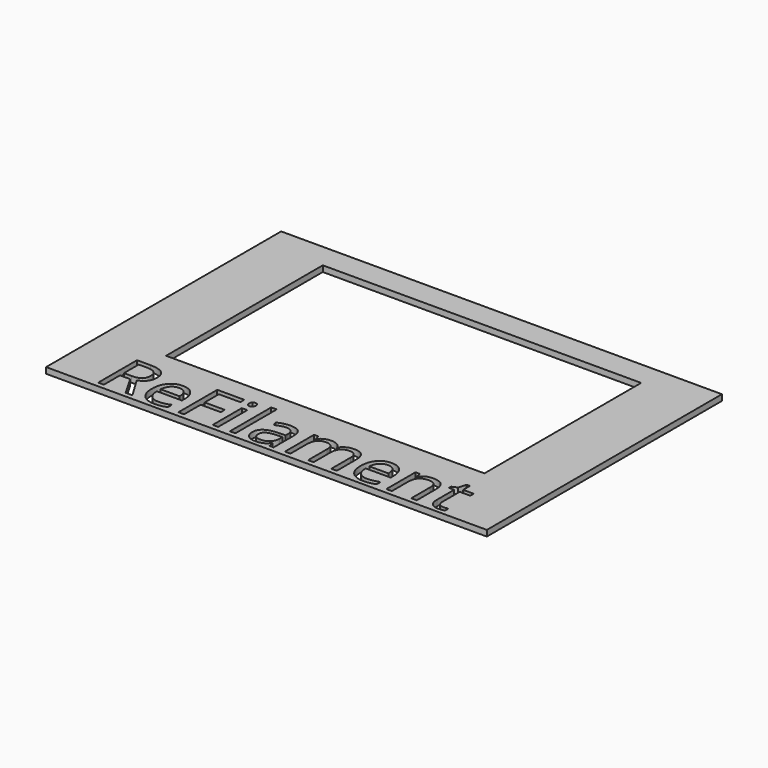
from build123d import *

# Parameters (mm, degrees)
F1_DEPTH = 3.0734
F0_W     = 228.6
F0_H     = 152.4
F0_W_2   = 2.8608072917
F0_H_2   = 18.8791232639
F0_H_3   = 26.8055989583
F0_W_3   = 165.1
F0_H_4   = 101.6


with BuildPart() as f1:
    # F0 (on Top) → F1 (new body)
    with BuildSketch(Plane.XY):
        with BuildLine():
            Line((-86.3781901042, -51.0436371528), (-86.3781901042, -60.6733680556))
            Line((-86.3781901042, -60.6733680556), (-82.3598307292, -60.6733680556))
            add(Edge.make_bspline(
                [(-82.3598307292, -60.6733680556), (-79.2620008681, -60.6733680556), (-77.8150607639, -59.4414019097)],
                knots=[0, 0, 0, 1, 1, 1], degree=2))
            add(Edge.make_bspline(
                [(-77.8150607639, -59.4414019097), (-76.3681206597, -58.2094357639), (-76.3681206597, -55.7455034722)],
                knots=[0, 0, 0, 1, 1, 1], degree=2))
            add(Edge.make_bspline(
                [(-76.3681206597, -55.7455034722), (-76.3681206597, -53.2484982639), (-77.8398654514, -52.1460677083)],
                knots=[0, 0, 0, 1, 1, 1], degree=2))
            add(Edge.make_bspline(
                [(-77.8398654514, -52.1460677083), (-79.3116102431, -51.0436371528), (-82.5692925347, -51.0436371528)],
                knots=[0, 0, 0, 1, 1, 1], degree=2))
            Line((-82.5692925347, -51.0436371528), (-86.3781901042, -51.0436371528))
        make_face()
    extrude(amount=F1_DEPTH)


with BuildPart() as f1b:
    # F0 (on Top) → F1, piece 2 (new body)
    with BuildSketch(Plane.XY):
        with BuildLine():
            add(Edge.make_bspline(
                [(-57.2822916667, -58.2700694444), (-58.4866970486, -56.8313975694), (-60.7301432292, -56.8313975694)],
                knots=[0, 0, 0, 1, 1, 1], degree=2))
            add(Edge.make_bspline(
                [(-60.7301432292, -56.8313975694), (-63.0011501736, -56.8313975694), (-64.3543836806, -58.3114105903)],
                knots=[0, 0, 0, 1, 1, 1], degree=2))
            add(Edge.make_bspline(
                [(-64.3543836806, -58.3114105903), (-65.7076171875, -59.7914236111), (-65.9501519097, -62.4096961806)],
                knots=[0, 0, 0, 1, 1, 1], degree=2))
            Line((-65.9501519097, -62.4096961806), (-56.0778862847, -62.4096961806))
            add(Edge.make_bspline(
                [(-56.0778862847, -62.4096961806), (-56.0778862847, -59.7087413194), (-57.2822916667, -58.2700694444)],
                knots=[0, 0, 0, 1, 1, 1], degree=2))
        make_face()
    extrude(amount=F1_DEPTH)


with BuildPart() as f1c:
    # F0 (on Top) → F1, piece 3 (new body)
    with BuildSketch(Plane.XY):
        with BuildLine():
            add(Edge.make_bspline(
                [(-9.5553168403, -70.8350217014), (-8.6182508681, -71.6425520833), (-6.9315321181, -71.6425520833)],
                knots=[0, 0, 0, 1, 1, 1], degree=2))
            add(Edge.make_bspline(
                [(-6.9315321181, -71.6425520833), (-4.2581380208, -71.6425520833), (-2.7340277778, -70.1790755208)],
                knots=[0, 0, 0, 1, 1, 1], degree=2))
            add(Edge.make_bspline(
                [(-2.7340277778, -70.1790755208), (-1.2099175347, -68.7155989583), (-1.2099175347, -66.0807899306)],
                knots=[0, 0, 0, 1, 1, 1], degree=2))
            Line((-1.2099175347, -66.0807899306), (-1.2099175347, -64.3775347222))
            Line((-1.2099175347, -64.3775347222), (-4.0707248264, -64.4932899306))
            add(Edge.make_bspline(
                [(-4.0707248264, -64.4932899306), (-7.4827473958, -64.6145572917), (-8.9875651042, -65.5543793403)],
                knots=[0, 0, 0, 1, 1, 1], degree=2))
            add(Edge.make_bspline(
                [(-8.9875651042, -65.5543793403), (-10.4923828125, -66.4942013889), (-10.4923828125, -68.4730642361)],
                knots=[0, 0, 0, 1, 1, 1], degree=2))
            add(Edge.make_bspline(
                [(-10.4923828125, -68.4730642361), (-10.4923828125, -70.0274913194), (-9.5553168403, -70.8350217014)],
                knots=[0, 0, 0, 1, 1, 1], degree=2))
        make_face()
    extrude(amount=F1_DEPTH)


with BuildPart() as f1d:
    # F0 (on Top) → F1, piece 4 (new body)
    with BuildSketch(Plane.XY):
        with BuildLine():
            add(Edge.make_bspline(
                [(50.9984375, -58.2700694444), (49.7940321181, -56.8313975694), (47.5505859375, -56.8313975694)],
                knots=[0, 0, 0, 1, 1, 1], degree=2))
            add(Edge.make_bspline(
                [(47.5505859375, -56.8313975694), (45.2795789931, -56.8313975694), (43.9263454861, -58.3114105903)],
                knots=[0, 0, 0, 1, 1, 1], degree=2))
            add(Edge.make_bspline(
                [(43.9263454861, -58.3114105903), (42.5731119792, -59.7914236111), (42.3305772569, -62.4096961806)],
                knots=[0, 0, 0, 1, 1, 1], degree=2))
            Line((42.3305772569, -62.4096961806), (52.2028428819, -62.4096961806))
            add(Edge.make_bspline(
                [(52.2028428819, -62.4096961806), (52.2028428819, -59.7087413194), (50.9984375, -58.2700694444)],
                knots=[0, 0, 0, 1, 1, 1], degree=2))
        make_face()
    extrude(amount=F1_DEPTH)


with BuildPart() as f1e:
    # F0 (on Top) → F1, piece 5 (new body)
    with BuildSketch(Plane.XY):
        Rectangle(F0_W, F0_H)
        with BuildLine():
            Line((-81.1195963542, -63.1869097222), (-86.3781901042, -63.1869097222))
            Line((-86.3781901042, -63.1869097222), (-86.3781901042, -73.66))
            Line((-86.3781901042, -73.66), (-89.3051432292, -73.66))
            Line((-89.3051432292, -73.66), (-89.3051432292, -48.4749739583))
            Line((-89.3051432292, -48.4749739583), (-82.3984157986, -48.4749739583))
            add(Edge.make_bspline(
                [(-82.3984157986, -48.4749739583), (-77.7626953125, -48.4749739583), (-75.5495659722, -50.2498871528)],
                knots=[0, 0, 0, 1, 1, 1], degree=2))
            add(Edge.make_bspline(
                [(-75.5495659722, -50.2498871528), (-73.3364366319, -52.0248003472), (-73.3364366319, -55.5911631944)],
                knots=[0, 0, 0, 1, 1, 1], degree=2))
            add(Edge.make_bspline(
                [(-73.3364366319, -55.5911631944), (-73.3364366319, -60.5851736111), (-78.4021050347, -62.3435503472)],
                knots=[0, 0, 0, 1, 1, 1], degree=2))
            Line((-78.4021050347, -62.3435503472), (-71.5615234375, -73.66))
            Line((-71.5615234375, -73.66), (-75.0231553819, -73.66))
            Line((-75.0231553819, -73.66), (-81.1195963542, -63.1869097222))
        make_face(mode=Mode.SUBTRACT)
        with BuildLine():
            add(Edge.make_bspline(
                [(-56.6897352431, -73.7206336806), (-58.0402126736, -74.007265625), (-59.9529296875, -74.007265625)],
                knots=[0, 0, 0, 1, 1, 1], degree=2))
            add(Edge.make_bspline(
                [(-59.9529296875, -74.007265625), (-64.1366536458, -74.007265625), (-66.5592447917, -71.4551388889)],
                knots=[0, 0, 0, 1, 1, 1], degree=2))
            add(Edge.make_bspline(
                [(-66.5592447917, -71.4551388889), (-68.9818359375, -68.9030121528), (-68.9818359375, -64.3775347222)],
                knots=[0, 0, 0, 1, 1, 1], degree=2))
            add(Edge.make_bspline(
                [(-68.9818359375, -64.3775347222), (-68.9818359375, -59.8079600694), (-66.7328776042, -57.1207855903)],
                knots=[0, 0, 0, 1, 1, 1], degree=2))
            add(Edge.make_bspline(
                [(-66.7328776042, -57.1207855903), (-64.4839192708, -54.4336111111), (-60.6915581597, -54.4336111111)],
                knots=[0, 0, 0, 1, 1, 1], degree=2))
            add(Edge.make_bspline(
                [(-60.6915581597, -54.4336111111), (-57.1472439236, -54.4336111111), (-55.0801866319, -56.7680078125)],
                knots=[0, 0, 0, 1, 1, 1], degree=2))
            add(Edge.make_bspline(
                [(-55.0801866319, -56.7680078125), (-53.0131293403, -59.1024045139), (-53.0131293403, -62.9278385417)],
                knots=[0, 0, 0, 1, 1, 1], degree=2))
            Line((-53.0131293403, -62.9278385417), (-53.0131293403, -64.7358246528))
            Line((-53.0131293403, -64.7358246528), (-66.0162977431, -64.7358246528))
            add(Edge.make_bspline(
                [(-66.0162977431, -64.7358246528), (-65.9281032986, -68.0596527778), (-64.3350911458, -69.7822005208)],
                knots=[0, 0, 0, 1, 1, 1], degree=2))
            add(Edge.make_bspline(
                [(-64.3350911458, -69.7822005208), (-62.7420789931, -71.5047482639), (-59.8481987847, -71.5047482639)],
                knots=[0, 0, 0, 1, 1, 1], degree=2))
            add(Edge.make_bspline(
                [(-59.8481987847, -71.5047482639), (-56.7999782986, -71.5047482639), (-53.8234157986, -70.2314409722)],
                knots=[0, 0, 0, 1, 1, 1], degree=2))
            Line((-53.8234157986, -70.2314409722), (-53.8234157986, -72.7835677083))
            add(Edge.make_bspline(
                [(-53.8234157986, -72.7835677083), (-55.3392578125, -73.4340017361), (-56.6897352431, -73.7206336806)],
                knots=[0, 0, 0, 1, 1, 1], degree=2))
        make_face(mode=Mode.SUBTRACT)
        Polygon((-44.7779730903, -62.894765625), (-44.7779730903, -73.66), (-47.7049262153, -73.66), (-47.7049262153, -48.4749739583), (-33.6654730903, -48.4749739583), (-33.6654730903, -51.0767100694), (-44.7779730903, -51.0767100694), (-44.7779730903, -60.2930295139), (-34.3379557292, -60.2930295139), (-34.3379557292, -62.894765625), align=None, mode=Mode.SUBTRACT)
        with Locations((-28.4978298611, -64.2204383681)):
            Rectangle(F0_W_2, F0_H_2, mode=Mode.SUBTRACT)
        with Locations((-19.5736545139, -60.2572005208)):
            Rectangle(F0_W_2, F0_H_3, mode=Mode.SUBTRACT)
        with BuildLine():
            Line((1.6508897569, -73.66), (-0.4712890625, -73.66))
            Line((-0.4712890625, -73.66), (-1.0390407986, -70.9700694444))
            Line((-1.0390407986, -70.9700694444), (-1.1768446181, -70.9700694444))
            add(Edge.make_bspline(
                [(-1.1768446181, -70.9700694444), (-2.5879557292, -72.7449826389), (-3.9907986111, -73.3761241319)],
                knots=[0, 0, 0, 1, 1, 1], degree=2))
            add(Edge.make_bspline(
                [(-3.9907986111, -73.3761241319), (-5.3936414931, -74.007265625), (-7.4992838542, -74.007265625)],
                knots=[0, 0, 0, 1, 1, 1], degree=2))
            add(Edge.make_bspline(
                [(-7.4992838542, -74.007265625), (-10.3049696181, -74.007265625), (-11.8979817708, -72.5575694444)],
                knots=[0, 0, 0, 1, 1, 1], degree=2))
            add(Edge.make_bspline(
                [(-11.8979817708, -72.5575694444), (-13.4909939236, -71.1078732639), (-13.4909939236, -68.4399913194)],
                knots=[0, 0, 0, 1, 1, 1], degree=2))
            add(Edge.make_bspline(
                [(-13.4909939236, -68.4399913194), (-13.4909939236, -62.7238888889), (-4.3463324653, -62.44828125)],
                knots=[0, 0, 0, 1, 1, 1], degree=2))
            Line((-4.3463324653, -62.44828125), (-1.1437717014, -62.3435503472))
            Line((-1.1437717014, -62.3435503472), (-1.1437717014, -61.1694618056))
            add(Edge.make_bspline(
                [(-1.1437717014, -61.1694618056), (-1.1437717014, -58.9480642361), (-2.0973741319, -57.8897309028)],
                knots=[0, 0, 0, 1, 1, 1], degree=2))
            add(Edge.make_bspline(
                [(-2.0973741319, -57.8897309028), (-3.0509765625, -56.8313975694), (-5.1566189236, -56.8313975694)],
                knots=[0, 0, 0, 1, 1, 1], degree=2))
            add(Edge.make_bspline(
                [(-5.1566189236, -56.8313975694), (-7.5158203125, -56.8313975694), (-10.4923828125, -58.2755815972)],
                knots=[0, 0, 0, 1, 1, 1], degree=2))
            Line((-10.4923828125, -58.2755815972), (-11.3743272569, -56.0872569444))
            add(Edge.make_bspline(
                [(-11.3743272569, -56.0872569444), (-9.9797526042, -55.3320920139), (-8.3178385417, -54.9021440972)],
                knots=[0, 0, 0, 1, 1, 1], degree=2))
            add(Edge.make_bspline(
                [(-8.3178385417, -54.9021440972), (-6.6559244792, -54.4721961806), (-4.9802300347, -54.4721961806)],
                knots=[0, 0, 0, 1, 1, 1], degree=2))
            add(Edge.make_bspline(
                [(-4.9802300347, -54.4721961806), (-1.6067925347, -54.4721961806), (0.0220486111, -55.9687456597)],
                knots=[0, 0, 0, 1, 1, 1], degree=2))
            add(Edge.make_bspline(
                [(0.0220486111, -55.9687456597), (1.6508897569, -57.4652951389), (1.6508897569, -60.7725868056)],
                knots=[0, 0, 0, 1, 1, 1], degree=2))
            Line((1.6508897569, -60.7725868056), (1.6508897569, -73.66))
        make_face(mode=Mode.SUBTRACT)
        with BuildLine():
            add(Edge.make_bspline(
                [(-29.6884548611, -51.1042708333), (-30.1707682292, -50.6302256944), (-30.1707682292, -49.6655989583)],
                knots=[0, 0, 0, 1, 1, 1], degree=2))
            add(Edge.make_bspline(
                [(-30.1707682292, -49.6655989583), (-30.1707682292, -48.6844357639), (-29.6884548611, -48.2269270833)],
                knots=[0, 0, 0, 1, 1, 1], degree=2))
            add(Edge.make_bspline(
                [(-29.6884548611, -48.2269270833), (-29.2061414931, -47.7694184028), (-28.4785373264, -47.7694184028)],
                knots=[0, 0, 0, 1, 1, 1], degree=2))
            add(Edge.make_bspline(
                [(-28.4785373264, -47.7694184028), (-27.7895182292, -47.7694184028), (-27.2906684028, -48.2351953125)],
                knots=[0, 0, 0, 1, 1, 1], degree=2))
            add(Edge.make_bspline(
                [(-27.2906684028, -48.2351953125), (-26.7918185764, -48.7009722222), (-26.7918185764, -49.6655989583)],
                knots=[0, 0, 0, 1, 1, 1], degree=2))
            add(Edge.make_bspline(
                [(-26.7918185764, -49.6655989583), (-26.7918185764, -50.6302256944), (-27.2906684028, -51.1042708333)],
                knots=[0, 0, 0, 1, 1, 1], degree=2))
            add(Edge.make_bspline(
                [(-27.2906684028, -51.1042708333), (-27.7895182292, -51.5783159722), (-28.4785373264, -51.5783159722)],
                knots=[0, 0, 0, 1, 1, 1], degree=2))
            add(Edge.make_bspline(
                [(-28.4785373264, -51.5783159722), (-29.2061414931, -51.5783159722), (-29.6884548611, -51.1042708333)],
                knots=[0, 0, 0, 1, 1, 1], degree=2))
        make_face(mode=Mode.SUBTRACT)
        with BuildLine():
            Line((34.4592230903, -73.66), (31.6039279514, -73.66))
            Line((31.6039279514, -73.66), (31.6039279514, -61.3789236111))
            add(Edge.make_bspline(
                [(31.6039279514, -61.3789236111), (31.6039279514, -59.1189409722), (30.6393012153, -57.9917057292)],
                knots=[0, 0, 0, 1, 1, 1], degree=2))
            add(Edge.make_bspline(
                [(30.6393012153, -57.9917057292), (29.6746744792, -56.8644704861), (27.6406901042, -56.8644704861)],
                knots=[0, 0, 0, 1, 1, 1], degree=2))
            add(Edge.make_bspline(
                [(27.6406901042, -56.8644704861), (24.9728081597, -56.8644704861), (23.6967447917, -58.3968489583)],
                knots=[0, 0, 0, 1, 1, 1], degree=2))
            add(Edge.make_bspline(
                [(23.6967447917, -58.3968489583), (22.4206814236, -59.9292274306), (22.4206814236, -63.1152517361)],
                knots=[0, 0, 0, 1, 1, 1], degree=2))
            Line((22.4206814236, -63.1152517361), (22.4206814236, -73.66))
            Line((22.4206814236, -73.66), (19.5598741319, -73.66))
            Line((19.5598741319, -73.66), (19.5598741319, -61.3789236111))
            add(Edge.make_bspline(
                [(19.5598741319, -61.3789236111), (19.5598741319, -59.1189409722), (18.5952473958, -57.9917057292)],
                knots=[0, 0, 0, 1, 1, 1], degree=2))
            add(Edge.make_bspline(
                [(18.5952473958, -57.9917057292), (17.6306206597, -56.8644704861), (15.5800998264, -56.8644704861)],
                knots=[0, 0, 0, 1, 1, 1], degree=2))
            add(Edge.make_bspline(
                [(15.5800998264, -56.8644704861), (12.8956814236, -56.8644704861), (11.6471788194, -58.4740190972)],
                knots=[0, 0, 0, 1, 1, 1], degree=2))
            add(Edge.make_bspline(
                [(11.6471788194, -58.4740190972), (10.3986762153, -60.0835677083), (10.3986762153, -63.7546614583)],
                knots=[0, 0, 0, 1, 1, 1], degree=2))
            Line((10.3986762153, -63.7546614583), (10.3986762153, -73.66))
            Line((10.3986762153, -73.66), (7.5378689236, -73.66))
            Line((7.5378689236, -73.66), (7.5378689236, -54.7808767361))
            Line((7.5378689236, -54.7808767361), (9.8639973958, -54.7808767361))
            Line((9.8639973958, -54.7808767361), (10.3270182292, -57.3660763889))
            Line((10.3270182292, -57.3660763889), (10.4648220486, -57.3660763889))
            add(Edge.make_bspline(
                [(10.4648220486, -57.3660763889), (11.2751085069, -55.9880381944), (12.749609375, -55.2108246528)],
                knots=[0, 0, 0, 1, 1, 1], degree=2))
            add(Edge.make_bspline(
                [(12.749609375, -55.2108246528), (14.2241102431, -54.4336111111), (16.0486328125, -54.4336111111)],
                knots=[0, 0, 0, 1, 1, 1], degree=2))
            add(Edge.make_bspline(
                [(16.0486328125, -54.4336111111), (20.4748914931, -54.4336111111), (21.8363932292, -57.6416840278)],
                knots=[0, 0, 0, 1, 1, 1], degree=2))
            Line((21.8363932292, -57.6416840278), (21.9741970486, -57.6416840278))
            add(Edge.make_bspline(
                [(21.9741970486, -57.6416840278), (22.8175564236, -56.1589149306), (24.4188368056, -55.2962630208)],
                knots=[0, 0, 0, 1, 1, 1], degree=2))
            add(Edge.make_bspline(
                [(24.4188368056, -55.2962630208), (26.0201171875, -54.4336111111), (28.0706380208, -54.4336111111)],
                knots=[0, 0, 0, 1, 1, 1], degree=2))
            add(Edge.make_bspline(
                [(28.0706380208, -54.4336111111), (31.2731987847, -54.4336111111), (32.8662109375, -56.0789887153)],
                knots=[0, 0, 0, 1, 1, 1], degree=2))
            add(Edge.make_bspline(
                [(32.8662109375, -56.0789887153), (34.4592230903, -57.7243663194), (34.4592230903, -61.3458506944)],
                knots=[0, 0, 0, 1, 1, 1], degree=2))
            Line((34.4592230903, -61.3458506944), (34.4592230903, -73.66))
        make_face(mode=Mode.SUBTRACT)
        with BuildLine():
            add(Edge.make_bspline(
                [(51.5909939236, -73.7206336806), (50.2405164931, -74.007265625), (48.3277994792, -74.007265625)],
                knots=[0, 0, 0, 1, 1, 1], degree=2))
            add(Edge.make_bspline(
                [(48.3277994792, -74.007265625), (44.1440755208, -74.007265625), (41.721484375, -71.4551388889)],
                knots=[0, 0, 0, 1, 1, 1], degree=2))
            add(Edge.make_bspline(
                [(41.721484375, -71.4551388889), (39.2988932292, -68.9030121528), (39.2988932292, -64.3775347222)],
                knots=[0, 0, 0, 1, 1, 1], degree=2))
            add(Edge.make_bspline(
                [(39.2988932292, -64.3775347222), (39.2988932292, -59.8079600694), (41.5478515625, -57.1207855903)],
                knots=[0, 0, 0, 1, 1, 1], degree=2))
            add(Edge.make_bspline(
                [(41.5478515625, -57.1207855903), (43.7968098958, -54.4336111111), (47.5891710069, -54.4336111111)],
                knots=[0, 0, 0, 1, 1, 1], degree=2))
            add(Edge.make_bspline(
                [(47.5891710069, -54.4336111111), (51.1334852431, -54.4336111111), (53.2005425347, -56.7680078125)],
                knots=[0, 0, 0, 1, 1, 1], degree=2))
            add(Edge.make_bspline(
                [(53.2005425347, -56.7680078125), (55.2675998264, -59.1024045139), (55.2675998264, -62.9278385417)],
                knots=[0, 0, 0, 1, 1, 1], degree=2))
            Line((55.2675998264, -62.9278385417), (55.2675998264, -64.7358246528))
            Line((55.2675998264, -64.7358246528), (42.2644314236, -64.7358246528))
            add(Edge.make_bspline(
                [(42.2644314236, -64.7358246528), (42.3526258681, -68.0596527778), (43.9456380208, -69.7822005208)],
                knots=[0, 0, 0, 1, 1, 1], degree=2))
            add(Edge.make_bspline(
                [(43.9456380208, -69.7822005208), (45.5386501736, -71.5047482639), (48.4325303819, -71.5047482639)],
                knots=[0, 0, 0, 1, 1, 1], degree=2))
            add(Edge.make_bspline(
                [(48.4325303819, -71.5047482639), (51.4807508681, -71.5047482639), (54.4573133681, -70.2314409722)],
                knots=[0, 0, 0, 1, 1, 1], degree=2))
            Line((54.4573133681, -70.2314409722), (54.4573133681, -72.7835677083))
            add(Edge.make_bspline(
                [(54.4573133681, -72.7835677083), (52.9414713542, -73.4340017361), (51.5909939236, -73.7206336806)],
                knots=[0, 0, 0, 1, 1, 1], degree=2))
        make_face(mode=Mode.SUBTRACT)
        with BuildLine():
            Line((75.9271484375, -73.66), (73.0663411458, -73.66))
            Line((73.0663411458, -73.66), (73.0663411458, -61.4450694444))
            add(Edge.make_bspline(
                [(73.0663411458, -61.4450694444), (73.0663411458, -59.1409895833), (72.0162760417, -58.0027300347)],
                knots=[0, 0, 0, 1, 1, 1], degree=2))
            add(Edge.make_bspline(
                [(72.0162760417, -58.0027300347), (70.9662109375, -56.8644704861), (68.7227647569, -56.8644704861)],
                knots=[0, 0, 0, 1, 1, 1], degree=2))
            add(Edge.make_bspline(
                [(68.7227647569, -56.8644704861), (65.7627387153, -56.8644704861), (64.3847005208, -58.4657508681)],
                knots=[0, 0, 0, 1, 1, 1], degree=2))
            add(Edge.make_bspline(
                [(64.3847005208, -58.4657508681), (63.0066623264, -60.06703125), (63.0066623264, -63.7546614583)],
                knots=[0, 0, 0, 1, 1, 1], degree=2))
            Line((63.0066623264, -63.7546614583), (63.0066623264, -73.66))
            Line((63.0066623264, -73.66), (60.1458550347, -73.66))
            Line((60.1458550347, -73.66), (60.1458550347, -54.7808767361))
            Line((60.1458550347, -54.7808767361), (62.4719835069, -54.7808767361))
            Line((62.4719835069, -54.7808767361), (62.9350043403, -57.3660763889))
            Line((62.9350043403, -57.3660763889), (63.0728081597, -57.3660763889))
            add(Edge.make_bspline(
                [(63.0728081597, -57.3660763889), (63.9547526042, -55.9715017361), (65.5394965278, -55.2025564236)],
                knots=[0, 0, 0, 1, 1, 1], degree=2))
            add(Edge.make_bspline(
                [(65.5394965278, -55.2025564236), (67.1242404514, -54.4336111111), (69.0700303819, -54.4336111111)],
                knots=[0, 0, 0, 1, 1, 1], degree=2))
            add(Edge.make_bspline(
                [(69.0700303819, -54.4336111111), (72.4820529514, -54.4336111111), (74.2046006944, -56.0789887153)],
                knots=[0, 0, 0, 1, 1, 1], degree=2))
            add(Edge.make_bspline(
                [(74.2046006944, -56.0789887153), (75.9271484375, -57.7243663194), (75.9271484375, -61.3458506944)],
                knots=[0, 0, 0, 1, 1, 1], degree=2))
            Line((75.9271484375, -61.3458506944), (75.9271484375, -73.66))
        make_face(mode=Mode.SUBTRACT)
        with BuildLine():
            add(Edge.make_bspline(
                [(85.6726345486, -70.7302907986), (86.4829210069, -71.6425520833), (87.8940321181, -71.6425520833)],
                knots=[0, 0, 0, 1, 1, 1], degree=2))
            add(Edge.make_bspline(
                [(87.8940321181, -71.6425520833), (88.6547092014, -71.6425520833), (89.3602647569, -71.5323090278)],
                knots=[0, 0, 0, 1, 1, 1], degree=2))
            add(Edge.make_bspline(
                [(89.3602647569, -71.5323090278), (90.0658203125, -71.4220659722), (90.4792317708, -71.3007986111)],
                knots=[0, 0, 0, 1, 1, 1], degree=2))
            Line((90.4792317708, -71.3007986111), (90.4792317708, -73.4891232639))
            add(Edge.make_bspline(
                [(90.4792317708, -73.4891232639), (90.0162109375, -73.709609375), (89.1122178819, -73.8584375)],
                knots=[0, 0, 0, 1, 1, 1], degree=2))
            add(Edge.make_bspline(
                [(89.1122178819, -73.8584375), (88.2082248264, -74.007265625), (87.4806206597, -74.007265625)],
                knots=[0, 0, 0, 1, 1, 1], degree=2))
            add(Edge.make_bspline(
                [(87.4806206597, -74.007265625), (82.0070529514, -74.007265625), (82.0070529514, -68.2360416667)],
                knots=[0, 0, 0, 1, 1, 1], degree=2))
            Line((82.0070529514, -68.2360416667), (82.0070529514, -57.0022743056))
            Line((82.0070529514, -57.0022743056), (79.3005859375, -57.0022743056))
            Line((79.3005859375, -57.0022743056), (79.3005859375, -55.6242361111))
            Line((79.3005859375, -55.6242361111), (82.0070529514, -54.4336111111))
            Line((82.0070529514, -54.4336111111), (83.2087022569, -50.4042274306))
            Line((83.2087022569, -50.4042274306), (84.8623480903, -50.4042274306))
            Line((84.8623480903, -50.4042274306), (84.8623480903, -54.7808767361))
            Line((84.8623480903, -54.7808767361), (90.3414279514, -54.7808767361))
            Line((90.3414279514, -54.7808767361), (90.3414279514, -57.0022743056))
            Line((90.3414279514, -57.0022743056), (84.8623480903, -57.0022743056))
            Line((84.8623480903, -57.0022743056), (84.8623480903, -68.1147743056))
            add(Edge.make_bspline(
                [(84.8623480903, -68.1147743056), (84.8623480903, -69.8180295139), (85.6726345486, -70.7302907986)],
                knots=[0, 0, 0, 1, 1, 1], degree=2))
        make_face(mode=Mode.SUBTRACT)
        with Locations((0, 12.7)):
            Rectangle(F0_W_3, F0_H_4, mode=Mode.SUBTRACT)
    extrude(amount=F1_DEPTH)


solid = Compound([f1.part, f1b.part, f1c.part, f1d.part, f1e.part])
